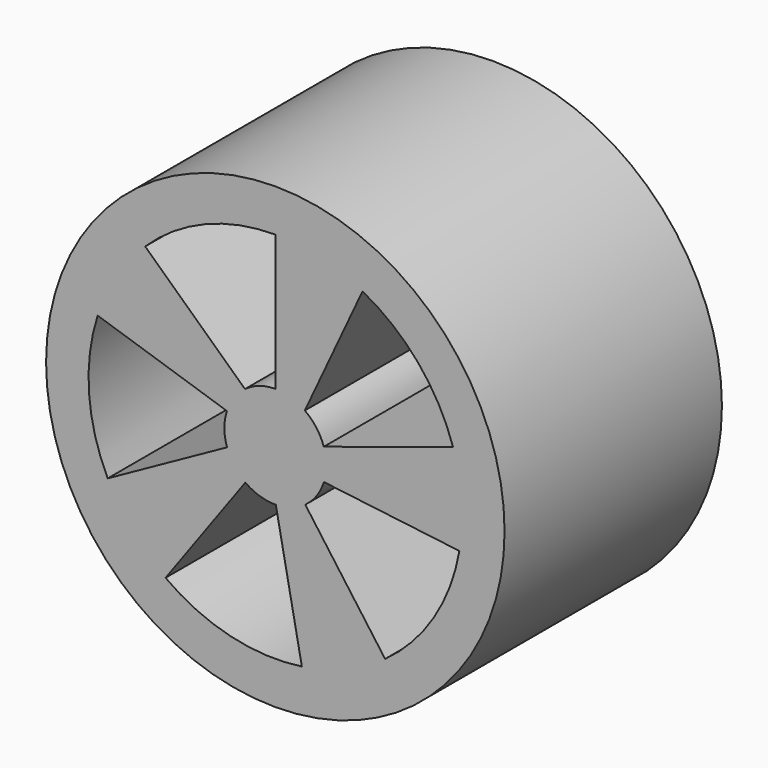
from build123d import *

# Parameters (mm, degrees)
F0_R     = 6.75
F1_DEPTH = 8
F3_DEPTH = 8.001


with BuildPart() as f1:
    # F0 (on Front) → F1 (new body)
    with BuildSketch(Plane.XZ):
        Circle(F0_R)
    extrude(amount=F1_DEPTH)

    # F2 (on Front) → F3 (cut, through all)
    with BuildSketch(Plane.XZ):
        with BuildLine():
            Line((0, 1.5), (0, 5.5))
            ThreePointArc((0, 5.5), (-2.067936, 5.096434), (-3.832399, 3.944961))
            Line((-3.832399, 3.944961), (-0.893771, 1.204646))
            ThreePointArc((-0.893771, 1.204646), (-0.470654, 1.424249), (0, 1.5))
        make_face()
        with BuildLine():
            Line((1.426585, 0.463525), (5.230811, 1.699593))
            ThreePointArc((5.230811, 1.699593), (4.20797, 3.541608), (2.567604, 4.863888))
            Line((2.567604, 4.863888), (0.869496, 1.222283))
            ThreePointArc((0.869496, 1.222283), (1.209101, 0.887736), (1.426585, 0.463525))
        make_face()
        with BuildLine():
            ThreePointArc((3.232819, -4.449593), (4.668604, -2.9076), (5.419266, -0.938913))
            Line((5.419266, -0.938913), (1.43115, -0.449234))
            ThreePointArc((1.43115, -0.449234), (1.21792, -0.875598), (0.881678, -1.213525))
            Line((0.881678, -1.213525), (3.232819, -4.449593))
        make_face()
        with BuildLine():
            Line((-1.426585, 0.463525), (-5.230811, 1.699593))
            ThreePointArc((-5.230811, 1.699593), (-5.486024, -0.391839), (-4.936157, -2.425768))
            Line((-4.936157, -2.425768), (-1.421877, -0.477771))
            ThreePointArc((-1.421877, -0.477771), (-1.499981, -0.007502), (-1.426585, 0.463525))
        make_face()
        with BuildLine():
            ThreePointArc((-3.232819, -4.449593), (-1.322614, -5.338604), (0.781686, -5.444168))
            Line((0.781686, -5.444168), (0.015003, -1.499925))
            ThreePointArc((0.015003, -1.499925), (-0.456385, -1.428885), (-0.881678, -1.213525))
            Line((-0.881678, -1.213525), (-3.232819, -4.449593))
        make_face()
    extrude(amount=F3_DEPTH, mode=Mode.SUBTRACT)


solid = f1.part
